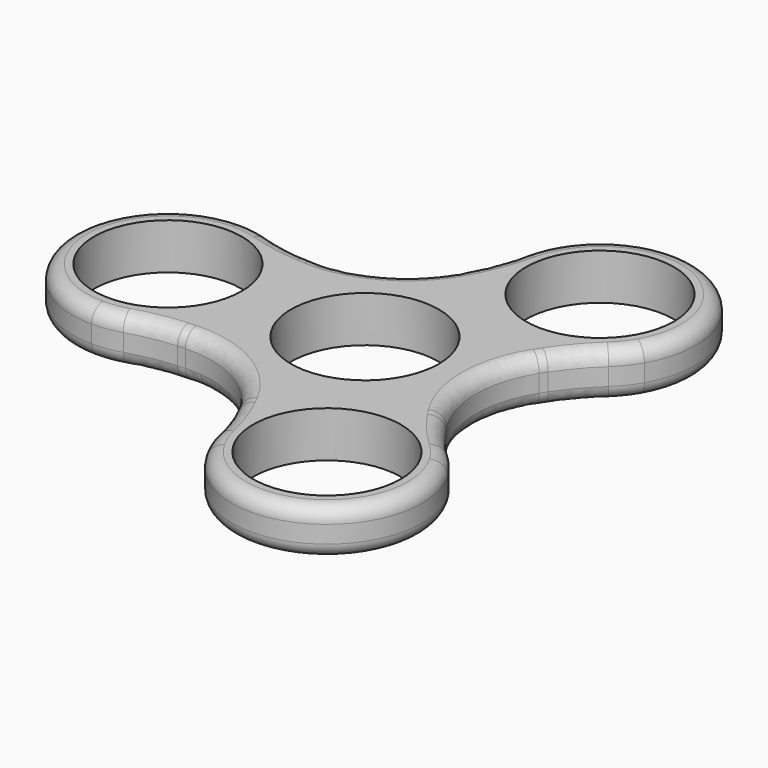
from build123d import *

# Parameters (mm, degrees)
F0_R     = 11.25
F1_DEPTH = 7
F2_COUNT = 3
F4_R     = 16.4079570647
F5_R     = 30.9108427565
F6_R     = 2.1727922061


with BuildPart() as f1:
    # F0 (on Top) → F1 (new body)
    with BuildSketch(Plane.XY):
        with BuildLine():
            ThreePointArc((-6.1697785126, 13.1218837484), (-12.2415642063, 7.7713644737), (-14.5, 0))
            ThreePointArc((-14.5, 0), (-12.2415642063, -7.7713644737), (-6.1697785126, -13.1218837484))
            ThreePointArc((-6.1697785126, -13.1218837484), (-3.0649815612, -13.7218158157), (0, -14.5))
            ThreePointArc((0, -14.5), (10.2530483272, -10.2530483272), (14.5, 0))
            ThreePointArc((14.5, 0), (10.2530483272, 10.2530483272), (0, 14.5))
            ThreePointArc((0, 14.5), (-3.0649815612, 13.7218158157), (-6.1697785126, 13.1218837484))
        make_face()
        with BuildLine():
            ThreePointArc((-11.25, 0), (0, 11.25), (11.25, 0))
            ThreePointArc((11.25, 0), (0, -11.25), (-11.25, 0))
        make_face(mode=Mode.SUBTRACT)
        with BuildLine():
            ThreePointArc((-6.1697785126, -13.1218837484), (-12.2415642063, -7.7713644737), (-14.5, 0))
            Line((-14.5, 0), (-15.5, 0))
            ThreePointArc((-15.5, 0), (-17.7584357937, -7.7713644737), (-23.8302214874, -13.1218837484))
            ThreePointArc((-23.8302214874, -13.1218837484), (-15, -12.4051030914), (-6.1697785126, -13.1218837484))
        make_face()
        with BuildLine():
            Line((-15.5, 0), (-14.5, 0))
            ThreePointArc((-14.5, 0), (-12.2415642063, 7.7713644737), (-6.1697785126, 13.1218837484))
            ThreePointArc((-6.1697785126, 13.1218837484), (-15, 12.4051030914), (-23.8302214874, 13.1218837484))
            ThreePointArc((-23.8302214874, 13.1218837484), (-17.7584357937, 7.7713644737), (-15.5, 0))
        make_face()
        with BuildLine():
            ThreePointArc((-23.8302214874, -13.1218837484), (-17.7584357937, -7.7713644737), (-15.5, 0))
            ThreePointArc((-15.5, 0), (-17.7584357937, 7.7713644737), (-23.8302214874, 13.1218837484))
            ThreePointArc((-23.8302214874, 13.1218837484), (-26.9350184388, 13.7218158157), (-30, 14.5))
            ThreePointArc((-30, 14.5), (-44.5, 0), (-30, -14.5))
            ThreePointArc((-30, -14.5), (-26.9350184388, -13.7218158157), (-23.8302214874, -13.1218837484))
        make_face()
        with Locations((-30, 0)):
            Circle(F0_R, mode=Mode.SUBTRACT)
        with BuildLine():
            ThreePointArc((0, 14.5), (-3.1609085441, 14.151277581), (-6.1697785126, 13.1218837484))
            ThreePointArc((-6.1697785126, 13.1218837484), (-3.0649815612, 13.7218158157), (0, 14.5))
        make_face()
        with BuildLine():
            ThreePointArc((0, -14.5), (-3.0649815612, -13.7218158157), (-6.1697785126, -13.1218837484))
            ThreePointArc((-6.1697785126, -13.1218837484), (-3.1609085441, -14.151277581), (0, -14.5))
        make_face()
        with BuildLine():
            ThreePointArc((-30, 14.5), (-26.9350184388, 13.7218158157), (-23.8302214874, 13.1218837484))
            ThreePointArc((-23.8302214874, 13.1218837484), (-26.8390914559, 14.151277581), (-30, 14.5))
        make_face()
        with BuildLine():
            ThreePointArc((-30, -14.5), (-26.8390914559, -14.151277581), (-23.8302214874, -13.1218837484))
            ThreePointArc((-23.8302214874, -13.1218837484), (-26.9350184388, -13.7218158157), (-30, -14.5))
        make_face()
    extrude(amount=F1_DEPTH)


with BuildPart() as f2_1:
    # F2: instance of F1
    add(f1.part.rotate(Axis((0, 0, 0), (0, 0, -1)), 1 * 360 / F2_COUNT))


with BuildPart() as f2_2:
    # F2: instance of F1
    add(f1.part.rotate(Axis((0, 0, 0), (0, 0, -1)), 2 * 360 / F2_COUNT))


with BuildPart() as f1_1:
    add(f1.part)

    # F3: union F2_1, F2_2
    add(f2_1.part)
    add(f2_2.part)

    # F4
    f4_edges = [f1_1.edges().sort_by_distance(p)[0] for p in [
        (14.92608, 0, 3.5),
        (-7.46304, 12.926365, 3.5),
        (-7.46304, -12.926365, 3.5),
    ]]
    fillet(f4_edges, radius=F4_R)

    # F5
    f5_edges = [f1_1.edges().sort_by_distance(p)[0] for p in [
        (-23.830221, 13.121884, 3.5),
        (0.551226, 27.198519, 3.5),
        (23.278995, 14.076635, 3.5),
        (23.278995, -14.076635, 3.5),
        (-23.830221, -13.121884, 3.5),
        (0.551226, -27.198519, 3.5),
    ]]
    fillet(f5_edges, radius=F5_R)

    # F6
    f6_edges = [f1_1.edges().sort_by_distance(p)[0] for p in [
        (22.25, -38.53813, 7),
        (-8.451903, -14.639126, 0),
        (-1.846027, -21.769722, 0),
    ]]
    fillet(f6_edges, radius=F6_R)


solid = f1_1.part
